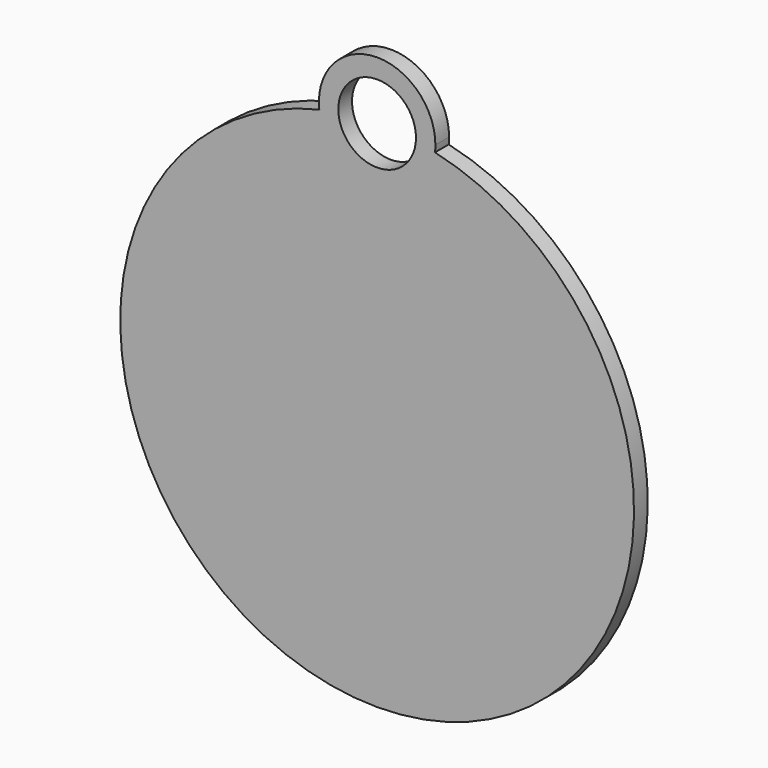
from build123d import *

# Parameters (mm, degrees)
F0_R     = 3.4
F1_DEPTH = 1.5


with BuildPart() as f1:
    # F0 (on Front) → F1 (new body)
    with BuildSketch(Plane.XZ):
        with BuildLine():
            ThreePointArc((5.1, 22.495), (-0.289531, 27.586775), (-5.067126, 21.916872))
            ThreePointArc((-5.067126, 21.916872), (0, 17.395), (5.067126, 21.916872))
            ThreePointArc((5.067126, 21.916872), (5.091775, 22.205469), (5.1, 22.495))
        make_face()
        with Locations((0, 22.495)):
            Circle(F0_R, mode=Mode.SUBTRACT)
        with BuildLine():
            ThreePointArc((5.067126, 21.916872), (0, 17.395), (-5.067126, 21.916872))
            ThreePointArc((-5.067126, 21.916872), (0, -22.495), (5.067126, 21.916872))
        make_face()
    extrude(amount=F1_DEPTH)


solid = f1.part
